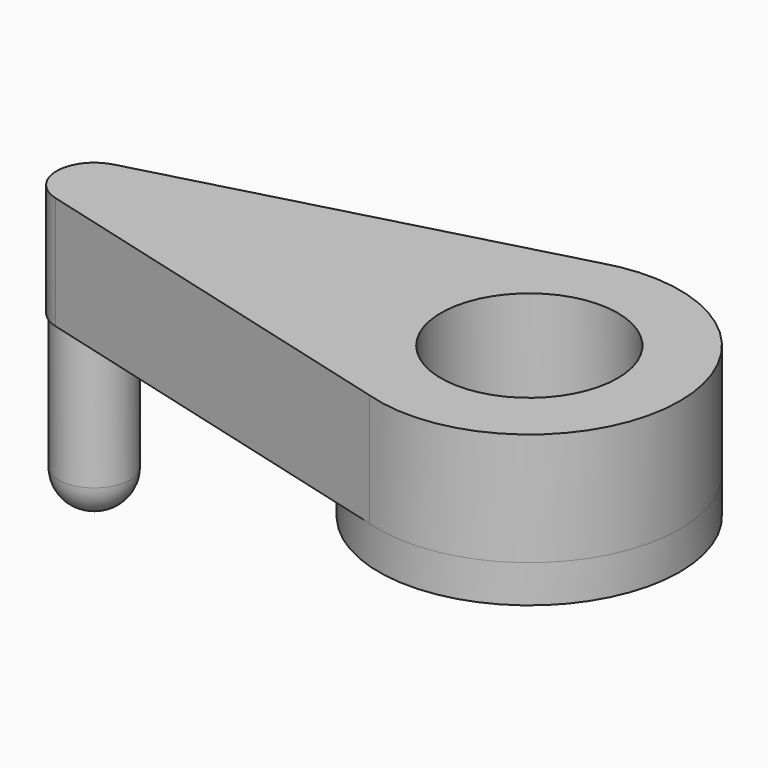
from build123d import *

# Parameters (mm, degrees)
SKETCH012_R     = 1.1
PAD007_DEPTH    = 3
SKETCH013_R     = 4
SKETCH013_R_2   = 1.1
PAD008_DEPTH    = 1
SKETCH014_R     = 0.95
PAD009_DEPTH    = 4.5
SKETCH016_R     = 2.35
POCKET003_DEPTH = 2.5
FILLET002_R     = 0.9


with BuildPart() as part:
    # Sketch012 → Pad007 (new body)
    with BuildSketch(Plane(origin=(26.5, -4.5, -11), x_dir=(1, 0, 0), z_dir=(0, 0, 1))):
        with BuildLine():
            Line((-11.827489, -0.965926), (-1.202823, -3.814868))
            ThreePointArc((-1.202823, -3.814868), (4, 0), (-1.202823, 3.814868))
            Line((-11.827489, 0.965926), (-1.202823, 3.814868))
            ThreePointArc((-11.827489, 0.965926), (-12.56867, 0), (-11.827489, -0.965926))
        make_face()
        Circle(SKETCH012_R, mode=Mode.SUBTRACT)
    extrude(amount=PAD007_DEPTH)

    # Sketch013 → Pad008 (new body)
    with BuildSketch(Plane(origin=(26.5, -4.5, -11), x_dir=(1, 0, 0), z_dir=(0, 0, -1))):
        Circle(SKETCH013_R)
        Circle(SKETCH013_R_2, mode=Mode.SUBTRACT)
    extrude(amount=PAD008_DEPTH)

    # Sketch014 → Pad009 (new body)
    with BuildSketch(Plane(origin=(26.5, -4.5, -11), x_dir=(1, 0, 0), z_dir=(0, 0, -1))):
        with Locations((-11.56867, 0)):
            Circle(SKETCH014_R)
    extrude(amount=PAD009_DEPTH)

    # Sketch016 → Pocket003 (cut)
    with BuildSketch(Plane(origin=(26.5, -4.5, -8), x_dir=(1, 0, 0), z_dir=(0, 0, 1))):
        Circle(SKETCH016_R)
    extrude(amount=-POCKET003_DEPTH, mode=Mode.SUBTRACT)

    # Fillet002
    fillet002_edges = [part.edges().sort_by_distance(p)[0] for p in [
        (13.98133, -4.5, -15.5),
    ]]
    fillet(fillet002_edges, radius=FILLET002_R)


solid = part.part
